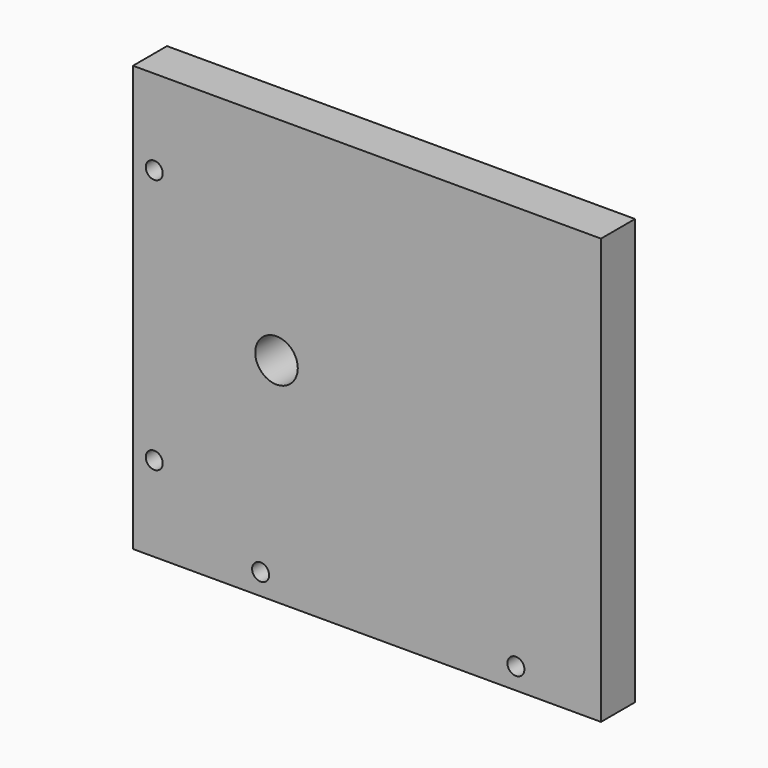
from build123d import *

# Parameters (mm, degrees)
F0_W     = 110
F0_H     = 100
F0_R     = 2
F0_R_2   = 5
F1_DEPTH = 10


with BuildPart() as f1:
    # F0 (on Front) → F1 (new body)
    with BuildSketch(Plane.XZ):
        Rectangle(F0_W, F0_H)
        with Locations((-50, -30)):
            Circle(F0_R, mode=Mode.SUBTRACT)
        with Locations((-25, -45)):
            Circle(F0_R, mode=Mode.SUBTRACT)
        with Locations((35, -45)):
            Circle(F0_R, mode=Mode.SUBTRACT)
        with Locations((-21.261254, 0)):
            Circle(F0_R_2, mode=Mode.SUBTRACT)
        with Locations((-50, 30)):
            Circle(F0_R, mode=Mode.SUBTRACT)
    extrude(amount=F1_DEPTH)


solid = f1.part
